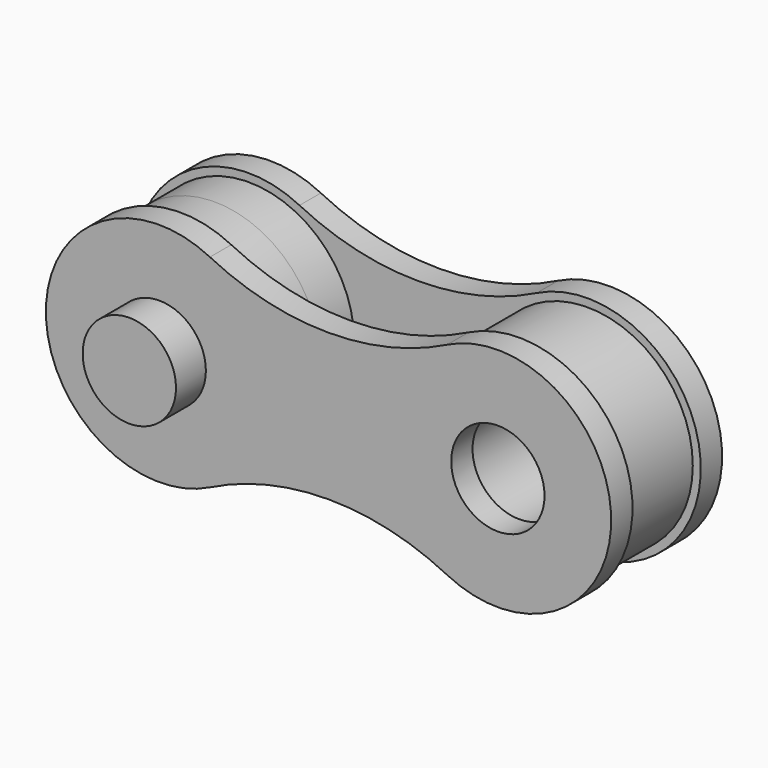
from build123d import *

# Parameters (mm, degrees)
F0_R     = 3.95
F0_R_2   = 1.85
F1_DEPTH = 1.6
F2_R     = 1.75
F3_DEPTH = 1
F5_R     = 1.75
F6_DEPTH = 4


with BuildPart() as f1:
    # F0 (on Front) → F1 (new body, symmetric)
    with BuildSketch(Plane.XZ):
        with Locations((-6.35, 0)):
            Circle(F0_R)
        with Locations((-6.35, 0)):
            Circle(F0_R_2, mode=Mode.SUBTRACT)
        with Locations((6.35, 0)):
            Circle(F0_R)
        with Locations((6.35, 0)):
            Circle(F0_R_2, mode=Mode.SUBTRACT)
    extrude(amount=F1_DEPTH, both=True)


with BuildPart() as f3:
    # F2 (on face) → F3 (new body)
    with BuildSketch(Plane.XZ.offset(1.6)):
        with BuildLine():
            ThreePointArc((4.448244, 3.800766), (0, 2.75), (-4.448244, 3.800766))
            ThreePointArc((-4.448244, 3.800766), (-10.6, 0), (-4.448244, -3.800766))
            ThreePointArc((-4.448244, -3.800766), (0, -2.75), (4.448244, -3.800766))
            ThreePointArc((4.448244, -3.800766), (10.6, 0), (4.448244, 3.800766))
        make_face()
        with Locations((-6.35, 0)):
            Circle(F2_R, mode=Mode.SUBTRACT)
        with Locations((6.35, 0)):
            Circle(F2_R, mode=Mode.SUBTRACT)
    extrude(amount=F3_DEPTH)


with BuildPart() as f4_1:
    # F4: instance of F3
    add(f3.part.mirror(Plane.XZ))


with BuildPart() as f6:
    # F5 (on Front) → F6 (new body, symmetric)
    with BuildSketch(Plane.XZ):
        with Locations((-6.35, 0)):
            Circle(F5_R)
    extrude(amount=F6_DEPTH, both=True)


solid = Compound([f1.part, f3.part, f4_1.part, f6.part])
